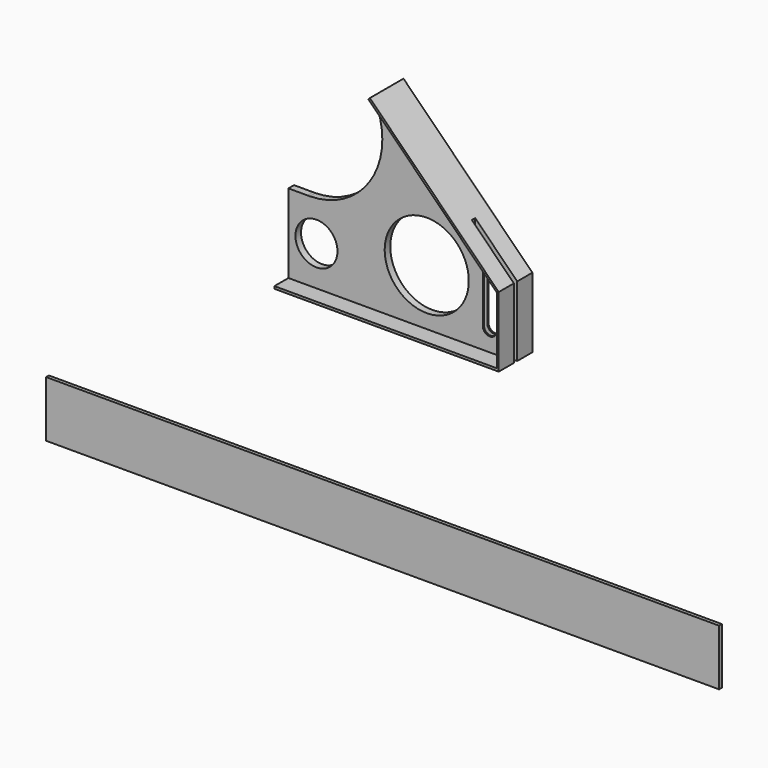
from build123d import *

# Parameters (mm, degrees)
F0_W      = 304.8
F0_H      = 25.4
F1_DEPTH  = 1.5875
F3_DEPTH  = 19.05
F5_DEPTH  = 7.9375
F8_DEPTH  = 7.9375
F9_D      = 38.1
F11_D     = 19.05
F13_DEPTH = 11.1135
F15_DEPTH = 19.05


with BuildPart() as f1:
    # F0 (on Front) → F1 (new body)
    with BuildSketch(Plane.XZ):
        with Locations((-1212.396877, -147.744871)):
            Rectangle(F0_W, F0_H)
    extrude(amount=F1_DEPTH)


with BuildPart() as f3:
    # F2 (on Front) → F3 (new body)
    with BuildSketch(Plane.XZ):
        with BuildLine():
            Line((-1202.980205, -54.59708), (-1145.830205, -54.59708))
            Line((-1145.830205, -54.59708), (-1145.830205, -22.84708))
            Line((-1145.830205, -22.84708), (-1204.20187, 35.524585))
            Line((-1204.20187, 35.524585), (-1208.691998, 31.034457))
            ThreePointArc((-1208.691998, 31.034457), (-1209.592483, -1.476633), (-1237.736912, -17.776111))
            ThreePointArc((-1237.736912, -17.776111), (-1238.265865, -17.780304), (-1238.794818, -17.776111))
            Line((-1238.794818, -17.776111), (-1247.430205, -17.776111))
            Line((-1247.430205, -17.776111), (-1247.430205, -54.59708))
            Line((-1247.430205, -54.59708), (-1202.980205, -54.59708))
        make_face()
    extrude(amount=F3_DEPTH)

    # F4 (on face) → F5 (cut)
    with BuildSketch(Plane.XZ.offset(19.05)):
        with BuildLine():
            Line((-1146.685898, -23.338426), (-1204.875389, 34.851066))
            Line((-1204.875389, 34.851066), (-1208.691998, 31.034457))
            ThreePointArc((-1208.691998, 31.034457), (-1209.866575, -1.929051), (-1238.794818, -17.776111))
            Line((-1238.794818, -17.776111), (-1247.430205, -17.776111))
            Line((-1247.430205, -17.776111), (-1247.430205, -53.515282))
            Line((-1247.430205, -53.515282), (-1245.987415, -53.515282))
            Line((-1245.987415, -53.515282), (-1146.685898, -53.515282))
            Line((-1146.685898, -53.515282), (-1146.685898, -23.338426))
        make_face()
    extrude(amount=-F5_DEPTH, mode=Mode.SUBTRACT)

    # F6 (on face) → F8 (cut)
    with BuildSketch(Plane(origin=(0, 0, 0), x_dir=(-1, 0, 0), z_dir=(0, 1, 0))):
        with BuildLine():
            Line((1208.691998, 31.034457), (1204.875389, 34.851066))
            Line((1204.875389, 34.851066), (1146.834178, -23.190145))
            Line((1146.834178, -23.190145), (1146.834178, -53.469513))
            Line((1146.834178, -53.469513), (1247.430205, -53.469513))
            Line((1247.430205, -53.469513), (1247.430205, -17.776111))
            Line((1247.430205, -17.776111), (1238.794818, -17.776111))
            ThreePointArc((1238.794818, -17.776111), (1209.866575, -1.929051), (1208.691998, 31.034457))
        make_face()
    extrude(amount=-F8_DEPTH, mode=Mode.SUBTRACT)

    # F9 (through all)
    with Locations(Plane.XZ.offset(11.1125)):
        with Locations((-1184.785898, -28.115282)):
            Hole(F9_D / 2)

    # F11 (through all)
    with Locations(Plane.XZ.offset(11.1125)):
        with Locations((-1234.730205, -35.645696)):
            Hole(F11_D / 2)

    # F12 (on face) → F13 (cut, through all)
    with BuildSketch(Plane.XZ.offset(11.1125)):
        with BuildLine():
            Line((-1159.358487, -22.181587), (-1159.358487, -43.573976))
            Line((-1159.358487, -43.573976), (-1159.358487, -44.406587))
            ThreePointArc((-1159.358487, -44.406587), (-1156.002088, -47.158408), (-1153.035898, -43.989867))
            Line((-1153.035898, -43.989867), (-1153.038781, -21.900549))
            Line((-1153.038781, -21.900549), (-1153.038816, -21.629186))
            ThreePointArc((-1153.038816, -21.629186), (-1156.070259, -18.593398), (-1159.358487, -21.348976))
            Line((-1159.358487, -21.348976), (-1159.358487, -22.181587))
        make_face()
    extrude(amount=-F13_DEPTH, mode=Mode.SUBTRACT)

    # F14 (on face) → F15 (cut)
    with BuildSketch(Plane.YZ.offset(-1145.830205)):
        Polygon((-10.4775, -54.59708), (-9.525, -54.59708), (-8.5725, -54.59708), (-8.5725, -22.84708), (-10.4775, -22.84708), align=None)
        Polygon((-10.4775, -3.79708), (-10.4775, -22.84708), (-8.5725, -22.84708), (-8.5725, -3.79708), (-9.525, -3.79708), align=None)
    extrude(amount=-F15_DEPTH, mode=Mode.SUBTRACT)


solid = Compound([f1.part, f3.part])
